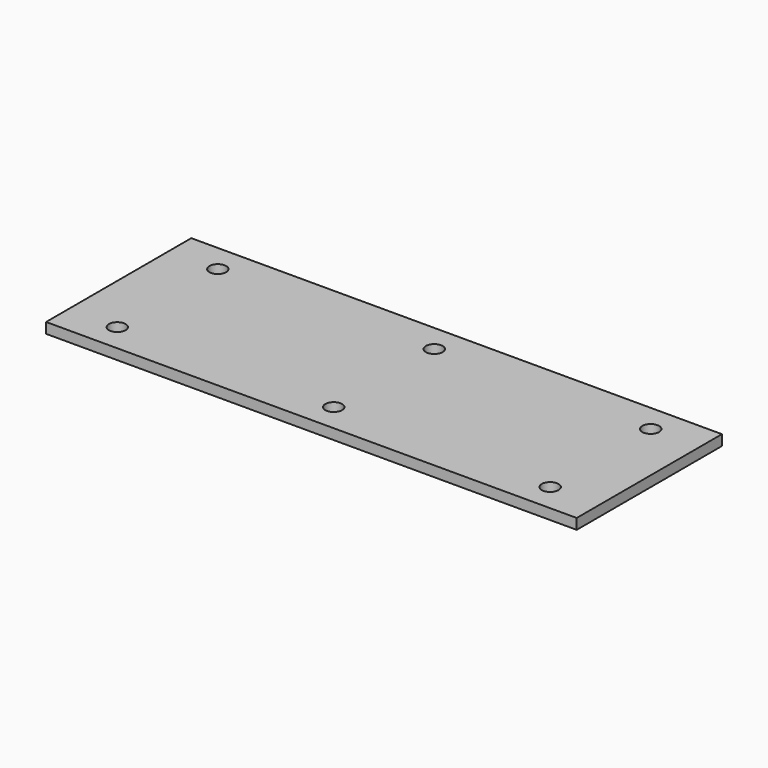
from build123d import *

# Parameters (mm, degrees)
F0_W     = 760
F0_H     = 260
F0_R     = 12
F1_DEPTH = 15


with BuildPart() as f1:
    # F0 (on Top) → F1 (new body)
    with BuildSketch(Plane.XY):
        Rectangle(F0_W, F0_H)
        with Locations((-310, -90)):
            Circle(F0_R, mode=Mode.SUBTRACT)
        with Locations((0, -90)):
            Circle(F0_R, mode=Mode.SUBTRACT)
        with Locations((310, -90)):
            Circle(F0_R, mode=Mode.SUBTRACT)
        with Locations((-310, 90)):
            Circle(F0_R, mode=Mode.SUBTRACT)
        with Locations((0, 90)):
            Circle(F0_R, mode=Mode.SUBTRACT)
        with Locations((310, 90)):
            Circle(F0_R, mode=Mode.SUBTRACT)
    extrude(amount=F1_DEPTH)


solid = f1.part
